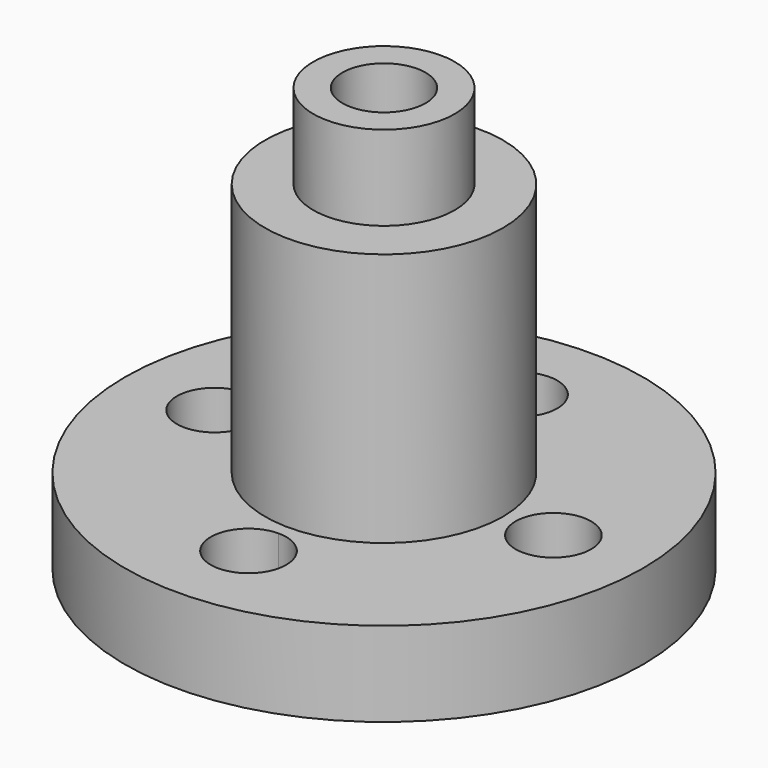
from build123d import *

# Parameters (mm, degrees)
F0_R     = 38.836494
F1_DEPTH = 12.7
F2_R     = 17.841747
F3_DEPTH = 38.1
F4_R     = 10.602316
F5_DEPTH = 12.7
F6_R     = 6.230647
F7_DEPTH = 63.5
F8_R     = 5.6642
F9_DEPTH = 25.4


with BuildPart() as f1:
    # F0 (on Top) → F1 (new body)
    with BuildSketch(Plane.XY):
        Circle(F0_R)
    extrude(amount=F1_DEPTH)


with BuildPart() as f3:
    # F2 (on face) → F3 (new body)
    with BuildSketch(Plane.XY.offset(12.7)):
        Circle(F2_R)
    extrude(amount=F3_DEPTH)


with BuildPart() as f5:
    # F4 (on face) → F5 (new body)
    with BuildSketch(Plane.XY.offset(50.8)):
        Circle(F4_R)
    extrude(amount=F5_DEPTH)


with BuildPart() as f7_tool:
    # F6 (on face) → F7 (new body)
    with BuildSketch(Plane.XY.offset(63.5)):
        Circle(F6_R)
    extrude(amount=-F7_DEPTH)


with BuildPart() as f1_1:
    add(f1.part)

    # F7: cut by f7_tool
    add(f7_tool.part, mode=Mode.SUBTRACT)

    # F8 (on face) → F9 (cut)
    with BuildSketch(Plane.XY.offset(12.7)):
        with BuildLine():
            ThreePointArc((5.6642, 25.4), (-4.005194, 29.405194), (0, 19.7358))
            ThreePointArc((0, 19.7358), (4.005194, 21.394806), (5.6642, 25.4))
        make_face()
        with BuildLine():
            ThreePointArc((5.6642, -25.4), (4.005194, -21.394806), (0, -19.7358))
            ThreePointArc((0, -19.7358), (-4.005194, -29.405194), (5.6642, -25.4))
        make_face()
        with BuildLine():
            ThreePointArc((31.0642, 0), (25.4, 5.6642), (19.7358, 0))
            ThreePointArc((19.7358, 0), (25.4, -5.6642), (31.0642, 0))
        make_face()
        with Locations((-25.4, 0)):
            Circle(F8_R)
    extrude(amount=-F9_DEPTH, mode=Mode.SUBTRACT)


with BuildPart() as f3_1:
    add(f3.part)

    # F7: cut by f7_tool
    add(f7_tool.part, mode=Mode.SUBTRACT)


with BuildPart() as f5_1:
    add(f5.part)

    # F7: cut by f7_tool
    add(f7_tool.part, mode=Mode.SUBTRACT)


solid = Compound([f1_1.part, f3_1.part, f5_1.part])
